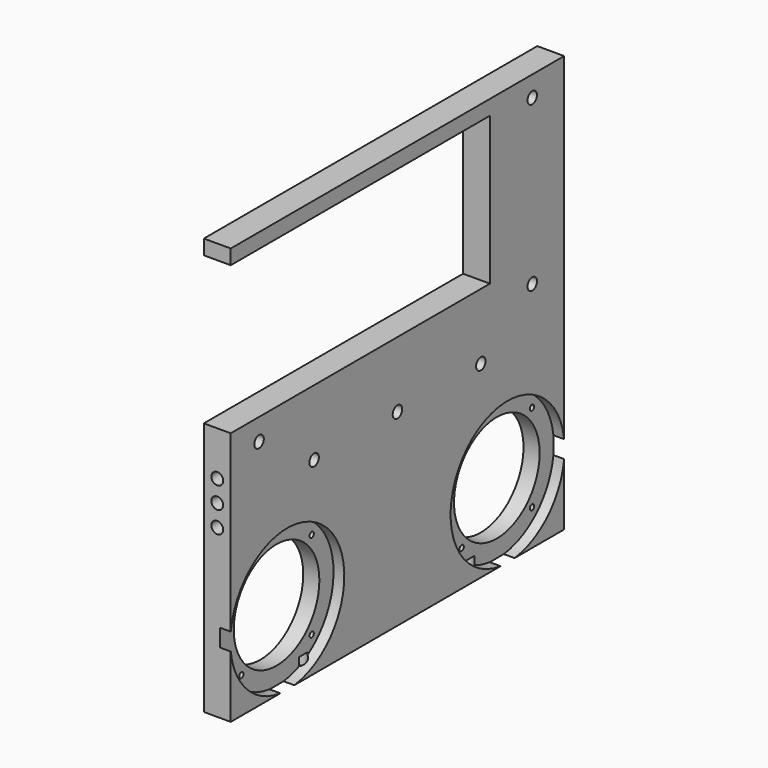
from build123d import *

# Parameters (mm, degrees)
SKETCH_W        = 10
SKETCH_H        = 155
PAD_DEPTH       = 155
SKETCH001_R     = 19.9
SKETCH001_R_2   = 1
POCKET_DEPTH    = 10.001
SKETCH002_R     = 2.2
SKETCH002_W     = 120.5
SKETCH002_H     = 55
POCKET001_DEPTH = 10.001
SKETCH003_R     = 2.2
POCKET002_DEPTH = 10.001
SKETCH004_R     = 2.2
POCKET003_DEPTH = 5
SKETCH005_R     = 2.2
POCKET004_DEPTH = 5
SKETCH006_R     = 2.2
POCKET005_DEPTH = 5
SKETCH007_R     = 26.5
SKETCH007_R_2   = 19.9
POCKET006_DEPTH = 4


with BuildPart() as part:
    # Sketch → Pad (new body)
    with BuildSketch(Plane.XY):
        with Locations((5, 77.5)):
            Rectangle(SKETCH_W, SKETCH_H)
    extrude(amount=PAD_DEPTH)

    # Sketch001 (on Face2 of Pad) → Pocket (cut, through all)
    with BuildSketch(Plane.YZ.offset(10)):
        with Locations((26.3, 26.3)):
            Circle(SKETCH001_R)
        with Locations((128.7, 26.3)):
            Circle(SKETCH001_R)
        with Locations((42.634167, 42.634167)):
            Circle(SKETCH001_R_2)
        with Locations((42.634167, 9.965833)):
            Circle(SKETCH001_R_2)
        with Locations((9.965833, 9.965833)):
            Circle(SKETCH001_R_2)
        with Locations((9.965833, 42.634167)):
            Circle(SKETCH001_R_2)
        with Locations((112.365833, 42.634167)):
            Circle(SKETCH001_R_2)
        with Locations((145.034167, 42.634167)):
            Circle(SKETCH001_R_2)
        with Locations((145.034167, 9.965833)):
            Circle(SKETCH001_R_2)
        with Locations((112.365833, 9.965833)):
            Circle(SKETCH001_R_2)
    extrude(amount=-POCKET_DEPTH, mode=Mode.SUBTRACT)

    # Sketch002 (on Face3 of Pocket) → Pocket001 (cut, through all)
    with BuildSketch(Plane.YZ.offset(10)):
        with Locations((13.17, 86.42)):
            Circle(SKETCH002_R)
        with Locations((140.17, 86.42)):
            Circle(SKETCH002_R)
        with Locations((140.17, 147.38)):
            Circle(SKETCH002_R)
        with Locations((60.25, 122)):
            Rectangle(SKETCH002_W, SKETCH002_H)
    extrude(amount=-POCKET001_DEPTH, mode=Mode.SUBTRACT)

    # Sketch003 (on Face3 of Pocket001) → Pocket002 (cut, through all)
    with BuildSketch(Plane.YZ.offset(10)):
        with Locations((38.75, 70)):
            Circle(SKETCH003_R)
        with Locations((77.5, 70)):
            Circle(SKETCH003_R)
        with Locations((116.25, 70)):
            Circle(SKETCH003_R)
    extrude(amount=-POCKET002_DEPTH, mode=Mode.SUBTRACT)

    # Sketch004 (on Face1 of Pocket002) → Pocket003 (cut)
    with BuildSketch(Plane.XZ):
        with Locations((5, 70)):
            Circle(SKETCH004_R)
        with Locations((5, 62)):
            Circle(SKETCH004_R)
        with Locations((5, 78)):
            Circle(SKETCH004_R)
    extrude(amount=-POCKET003_DEPTH, mode=Mode.SUBTRACT)

    # Sketch005 (on Face9 of Pocket003) → Pocket004 (cut)
    with BuildSketch(Plane(origin=(0, 155, 0), x_dir=(-1, 0, 0), z_dir=(0, 1, 0))):
        with Locations((-5, 78)):
            Circle(SKETCH005_R)
        with Locations((-5, 70)):
            Circle(SKETCH005_R)
        with Locations((-5, 62)):
            Circle(SKETCH005_R)
    extrude(amount=-POCKET004_DEPTH, mode=Mode.SUBTRACT)

    # Sketch006 (on Face2 of Pocket004) → Pocket005 (cut)
    with BuildSketch(Plane(origin=(0, 0, 0), x_dir=(1, 0, 0), z_dir=(0, 0, -1))):
        with Locations((5, -38.75)):
            Circle(SKETCH006_R)
        with Locations((5, -77.5)):
            Circle(SKETCH006_R)
        with Locations((5, -116.25)):
            Circle(SKETCH006_R)
    extrude(amount=-POCKET005_DEPTH, mode=Mode.SUBTRACT)

    # Sketch007 (on Face4 of Pocket005) → Pocket006 (cut)
    with BuildSketch(Plane.YZ.offset(10)):
        with Locations((26.3, 26.3)):
            Circle(SKETCH007_R)
        with Locations((26.3, 26.3)):
            Circle(SKETCH007_R_2, mode=Mode.SUBTRACT)
        with Locations((128.7, 26.3)):
            Circle(SKETCH007_R)
        with Locations((128.7, 26.3)):
            Circle(SKETCH007_R_2, mode=Mode.SUBTRACT)
    extrude(amount=-POCKET006_DEPTH, mode=Mode.SUBTRACT)


solid = part.part
